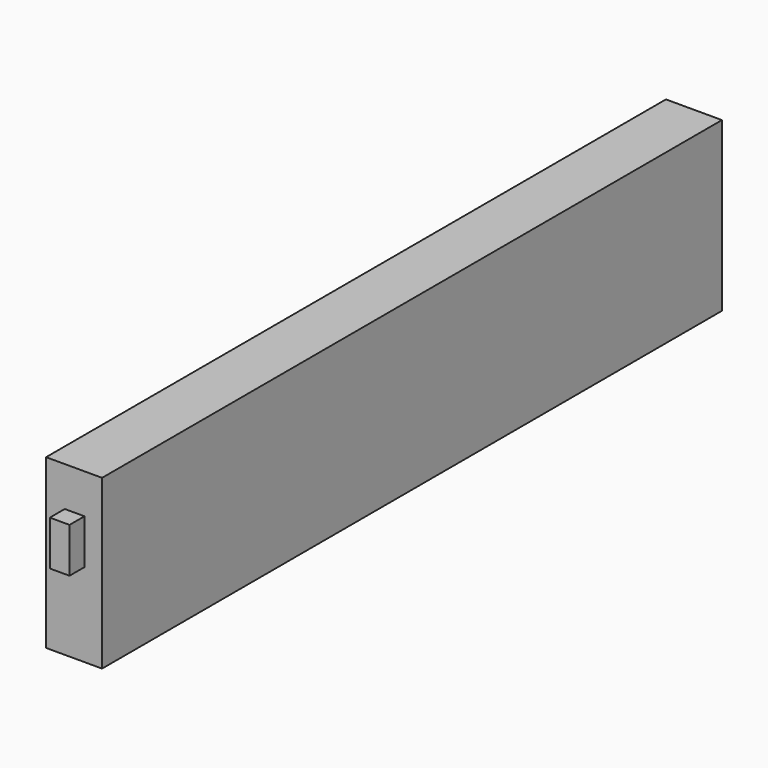
from build123d import *

# Parameters (mm, degrees)
F0_W     = 263.652
F0_H     = 57.15
F1_DEPTH = 19.05
F2_W     = 6.7056
F2_H     = 15.24
F3_DEPTH = 6.35
F5_DEPTH = 6.35


with BuildPart() as f1:
    # F0 (on Right) → F1 (new body)
    with BuildSketch(Plane.YZ):
        Rectangle(F0_W, F0_H)
    extrude(amount=F1_DEPTH)

    # F2 (on face) → F3 (join)
    with BuildSketch(Plane.XZ.offset(131.826)):
        with Locations((9.7028, 7.493)):
            Rectangle(F2_W, F2_H)
    extrude(amount=F3_DEPTH)

    # F4 (on face) → F5 (join)
    with BuildSketch(Plane(origin=(0, 131.826, 0), x_dir=(-1, 0, 0), z_dir=(0, 1, 0))):
        Polygon((-6.35, 15.113), (-9.525, 15.113), (-13.0556, 15.113), (-13.0556, -0.127), (-6.35, -0.127), align=None)
    extrude(amount=F5_DEPTH)


solid = f1.part
